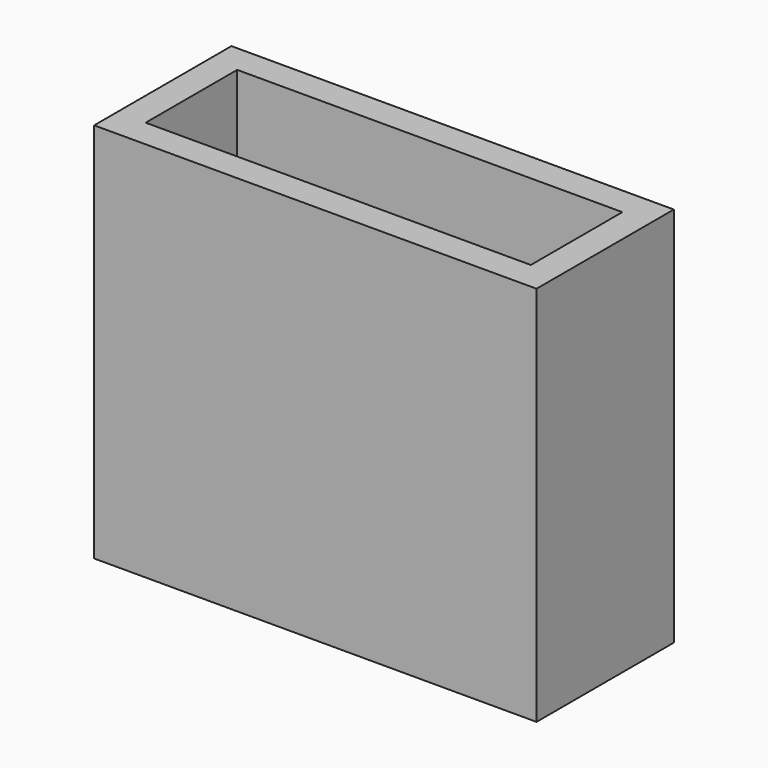
from build123d import *

# Parameters (mm, degrees)
F0_W     = 23.2
F0_H     = 20
F1_DEPTH = 9
F2_T     = -1.5


with BuildPart() as f1:
    # F0 (on Front) → F1 (new body)
    with BuildSketch(Plane.XZ):
        Rectangle(F0_W, F0_H)
    extrude(amount=F1_DEPTH)

    # F2
    f2_openings = [f1.faces().sort_by_distance(p)[0] for p in [
        (0, -4.5, 10),
        (0, -4.5, -10),
    ]]
    offset(amount=F2_T, openings=f2_openings)


solid = f1.part
